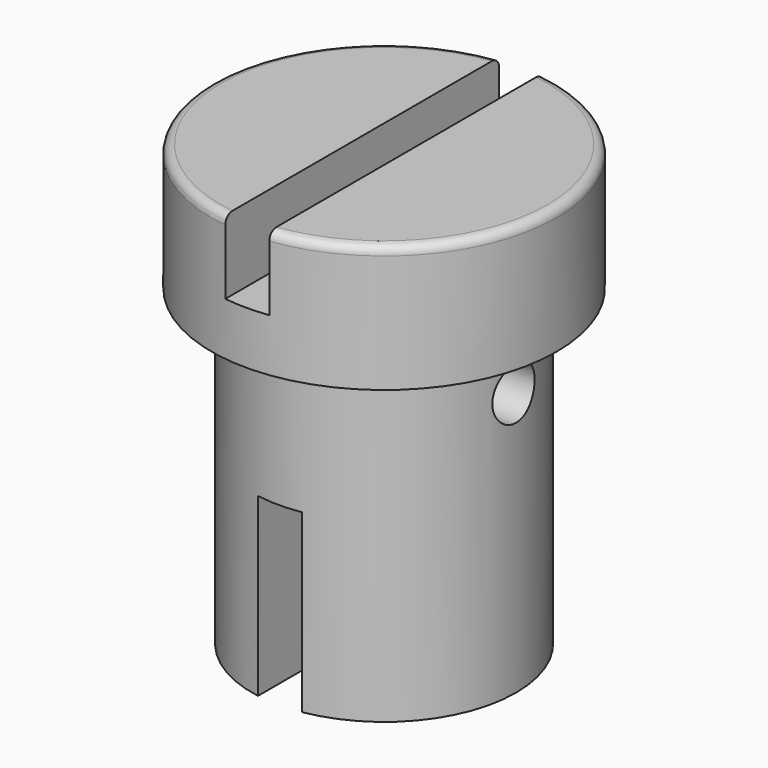
from build123d import *

# Parameters (mm, degrees)
F2_W     = 2.5
F2_H     = 24.3237719702
F3_DEPTH = 4.2
F4_R     = 0.5
F6_DEPTH = 10
F7_R     = 1.5
F8_DEPTH = 17.8


with BuildPart() as f1:
    # F0 (on Front) → F1 (revolve)
    with BuildSketch(Plane.XZ):
        Polygon((9.8, 25), (0, 25), (0, 0), (7.5, 0), (7.5, 17.8), (9.8, 17.8), align=None)
    revolve(axis=Axis((0, 0, 12.5), (0, 0, 1)))

    # F2 (on face) → F3 (cut)
    with BuildSketch(Plane.XY.offset(25)):
        with Locations((0, 0.1127594552)):
            Rectangle(F2_W, F2_H)
    extrude(amount=-F3_DEPTH, mode=Mode.SUBTRACT)

    # F4
    f4_edges = [f1.edges().sort_by_distance(p)[0] for p in [
        (-9.8, 0, 25),
        (7.358329, -6.472635, 25),
        (7.358329, 6.472635, 25),
    ]]
    fillet(f4_edges, radius=F4_R)

    # F5 (on face) → F6 (cut)
    with BuildSketch(Plane(origin=(0, 0, 0), x_dir=(1, 0, 0), z_dir=(0, 0, -1))):
        with BuildLine():
            Line((1.25, 11.9946791686), (-1.25, 11.9946791686))
            Line((-1.25, 11.9946791686), (-1.25, 7.3950997289))
            ThreePointArc((-1.25, 7.3950997289), (0, 7.5), (1.25, 7.3950997289))
            Line((1.25, 7.3950997289), (1.25, 11.9946791686))
        make_face()
        with BuildLine():
            ThreePointArc((1.25, -7.3950997289), (0, -7.5), (-1.25, -7.3950997289))
            Line((-1.25, -7.3950997289), (-1.25, -12.3138278868))
            Line((-1.25, -12.3138278868), (1.25, -12.3138278868))
            Line((1.25, -12.3138278868), (1.25, -7.3950997289))
        make_face()
        with BuildLine():
            ThreePointArc((1.25, 7.3950997289), (0, 7.5), (-1.25, 7.3950997289))
            Line((-1.25, 7.3950997289), (-1.25, -7.3950997289))
            ThreePointArc((-1.25, -7.3950997289), (0, -7.5), (1.25, -7.3950997289))
            Line((1.25, -7.3950997289), (1.25, 7.3950997289))
        make_face()
    extrude(amount=-F6_DEPTH, mode=Mode.SUBTRACT)

    # F7 (on Right) → F8 (cut, symmetric)
    with BuildSketch(Plane.YZ):
        with Locations((0, 15)):
            Circle(F7_R)
    extrude(amount=F8_DEPTH, both=True, mode=Mode.SUBTRACT)


solid = f1.part
